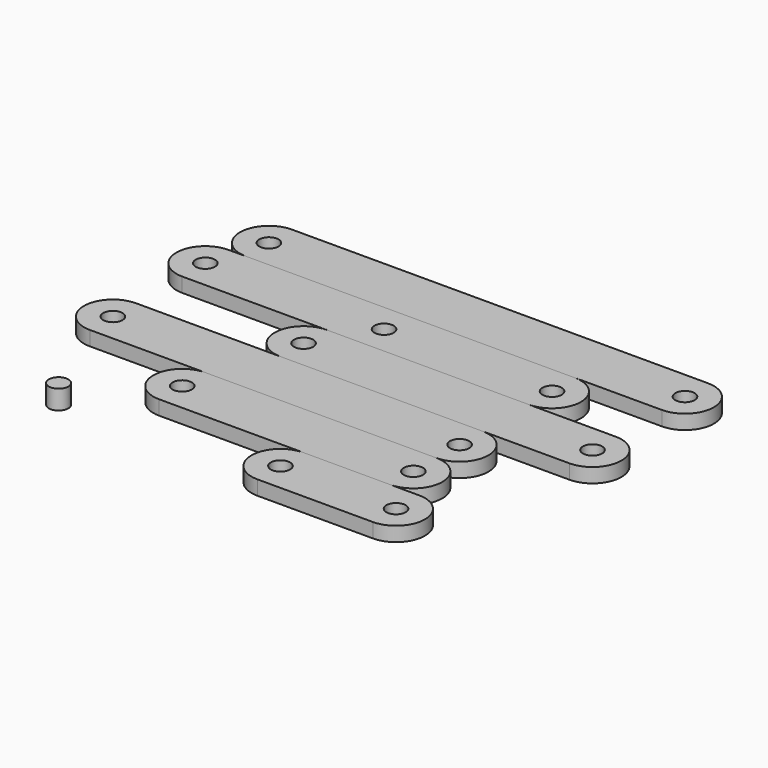
from build123d import *

# Parameters (mm, degrees)
F0_R      = 10
F1_DEPTH  = 15
F2_R      = 10
F3_DEPTH  = 15
F5_R      = 10
F6_DEPTH  = 15
F8_R      = 10
F9_DEPTH  = 15
F11_R     = 10.14074
F12_DEPTH = 20
F14_R     = 10
F15_DEPTH = 15.001
F16_R     = 10
F17_DEPTH = 15


with BuildPart() as f1:
    # F0 (on Top) → F1 (new body)
    with BuildSketch(Plane.XY):
        with BuildLine():
            Line((120, 30), (0, 30))
            ThreePointArc((0, 30), (-30, 0), (0, -30))
            Line((0, -30), (120, -30))
            ThreePointArc((120, -30), (150, 0), (120, 30))
        make_face()
        Circle(F0_R, mode=Mode.SUBTRACT)
        with Locations((120, 0)):
            Circle(F0_R, mode=Mode.SUBTRACT)
    extrude(amount=F1_DEPTH)


with BuildPart() as f3:
    # F2 (on Top) → F3 (new body)
    with BuildSketch(Plane.XY):
        with BuildLine():
            Line((90, 30), (-150, 30))
            ThreePointArc((-150, 30), (-180, 0), (-150, -30))
            Line((-150, -30), (90, -30))
            ThreePointArc((90, -30), (120, 0), (90, 30))
        make_face()
        with Locations((-150, 0)):
            Circle(F2_R, mode=Mode.SUBTRACT)
        with Locations((90, 0)):
            Circle(F2_R, mode=Mode.SUBTRACT)
    extrude(amount=F3_DEPTH)


with BuildPart() as f3_1:
    # F4: moved
    add(f3.part.moved(Location((0, 60, 0))))


with BuildPart() as f6:
    # F5 (on Top) → F6 (new body)
    with BuildSketch(Plane.XY):
        with BuildLine():
            Line((90, 30), (-270, 30))
            ThreePointArc((-270, 30), (-300, 0), (-270, -30))
            Line((-270, -30), (90, -30))
            ThreePointArc((90, -30), (120, 0), (90, 30))
        make_face()
        with Locations((-270, 0)):
            Circle(F5_R, mode=Mode.SUBTRACT)
        with Locations((90, 0)):
            Circle(F5_R, mode=Mode.SUBTRACT)
    extrude(amount=F6_DEPTH)


with BuildPart() as f6_1:
    # F7: moved
    add(f6.part.moved(Location((0, 120, 0))))


with BuildPart() as f9:
    # F8 (on Top) → F9 (new body)
    with BuildSketch(Plane.XY):
        with BuildLine():
            Line((180, 30), (-120, 30))
            ThreePointArc((-120, 30), (-150, 0), (-120, -30))
            Line((-120, -30), (180, -30))
            ThreePointArc((180, -30), (210, 0), (180, 30))
        make_face()
        with Locations((-120, 0)):
            Circle(F8_R, mode=Mode.SUBTRACT)
        with Locations((180, 0)):
            Circle(F8_R, mode=Mode.SUBTRACT)
    extrude(amount=F9_DEPTH)


with BuildPart() as f9_1:
    # F10: moved
    add(f9.part.moved(Location((0, 180, 0))))


with BuildPart() as f12:
    # F11 (on Top) → F12 (new body)
    with BuildSketch(Plane.XY):
        with Locations((-225.590616, -5.987674)):
            Circle(F11_R)
    extrude(amount=F12_DEPTH)


with BuildPart() as f13_1:
    # F13: copy of F6
    add(f6_1.part.moved(Location((0, 120, 0))))

    # F14 (on face) → F15 (cut, through all)
    with BuildSketch(Plane.XY.offset(15)):
        with Locations((-84.425837, 240)):
            Circle(F14_R)
    extrude(amount=-F15_DEPTH, mode=Mode.SUBTRACT)


with BuildPart() as f17:
    # F16 (on Top) → F17 (new body)
    with BuildSketch(Plane.XY):
        with BuildLine():
            Line((180, 30), (-252, 30))
            ThreePointArc((-252, 30), (-282, 0), (-252, -30))
            Line((-252, -30), (180, -30))
            ThreePointArc((180, -30), (210, 0), (180, 30))
        make_face()
        with Locations((-252, 0)):
            Circle(F16_R, mode=Mode.SUBTRACT)
        with Locations((180, 0)):
            Circle(F16_R, mode=Mode.SUBTRACT)
    extrude(amount=F17_DEPTH)


with BuildPart() as f17_1:
    # F18: moved
    add(f17.part.moved(Location((0, 300, 0))))


solid = Compound([f1.part, f3_1.part, f6_1.part, f9_1.part, f12.part, f13_1.part, f17_1.part])
